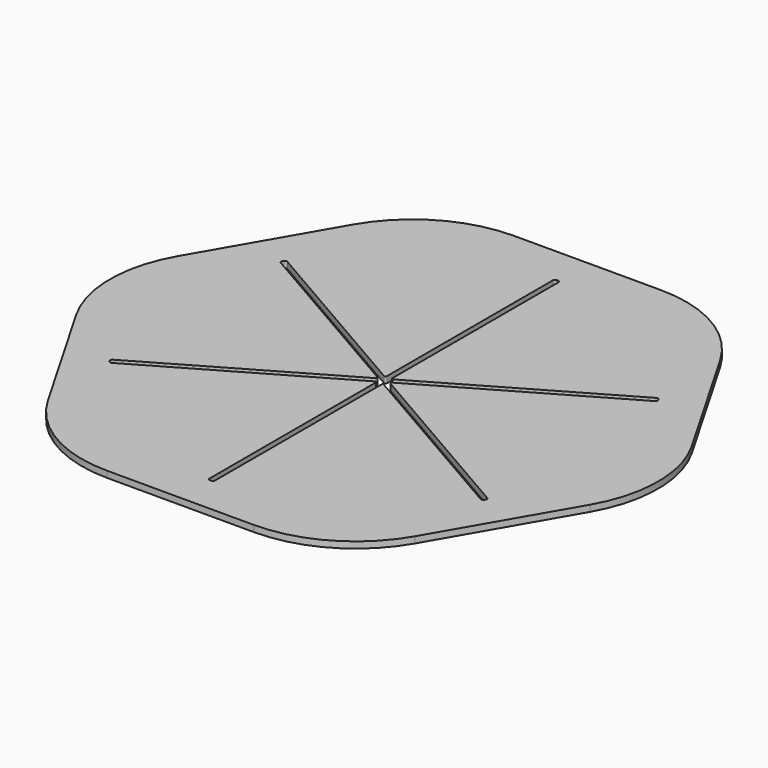
from build123d import *

# Parameters (mm, degrees)
F1_DEPTH = 1.5
F2_R     = 30
F3_R     = 0.5
F4_R     = 0.3


with BuildPart() as f1:
    # F0 (on Top) → F1 (new body)
    with BuildSketch(Plane.XY):
        Polygon((34.641016, 60), (-34.641016, 60), (-69.282032, 0), (-34.641016, -60), (34.641016, -60), (69.282032, 0), align=None)
        Polygon((0.65, -1.125833), (0.65, -51.125833), (-0.65, -51.125833), (-0.65, -1.125833), (-43.95127, -26.125833), (-44.60127, -25), (-1.3, 0), (-44.60127, 25), (-43.95127, 26.125833), (-0.65, 1.125833), (-0.65, 51.125833), (0.65, 51.125833), (0.65, 1.125833), (43.95127, 26.125833), (44.60127, 25), (1.3, 0), (44.60127, -25), (43.95127, -26.125833), align=None, mode=Mode.SUBTRACT)
    extrude(amount=F1_DEPTH)

    # F2
    f2_edges = [f1.edges().sort_by_distance(p)[0] for p in [
        (34.641016, 60, 0.75),
        (69.282032, 0, 0.75),
        (34.641016, -60, 0.75),
        (-34.641016, -60, 0.75),
        (-69.282032, 0, 0.75),
        (-34.641016, 60, 0.75),
    ]]
    fillet(f2_edges, radius=F2_R)

    # F3
    f3_edges = [f1.edges().sort_by_distance(p)[0] for p in [
        (43.95127, -26.125833, 0.75),
        (44.60127, -25, 0.75),
        (43.95127, 26.125833, 0.75),
        (44.60127, 25, 0.75),
        (-0.65, 51.125833, 0.75),
        (0.65, 51.125833, 0.75),
        (-44.60127, 25, 0.75),
        (-43.95127, 26.125833, 0.75),
        (-43.95127, -26.125833, 0.75),
        (-44.60127, -25, 0.75),
        (-0.65, -51.125833, 0.75),
        (0.65, -51.125833, 0.75),
    ]]
    fillet(f3_edges, radius=F3_R)

    # F4
    f4_edges = [f1.edges().sort_by_distance(p)[0] for p in [
        (-0.65, 1.125833, 0.75),
        (-1.3, 0, 0.75),
        (-0.65, -1.125833, 0.75),
        (0.65, 1.125833, 0.75),
        (1.3, 0, 0.75),
    ]]
    fillet(f4_edges, radius=F4_R)


solid = f1.part
